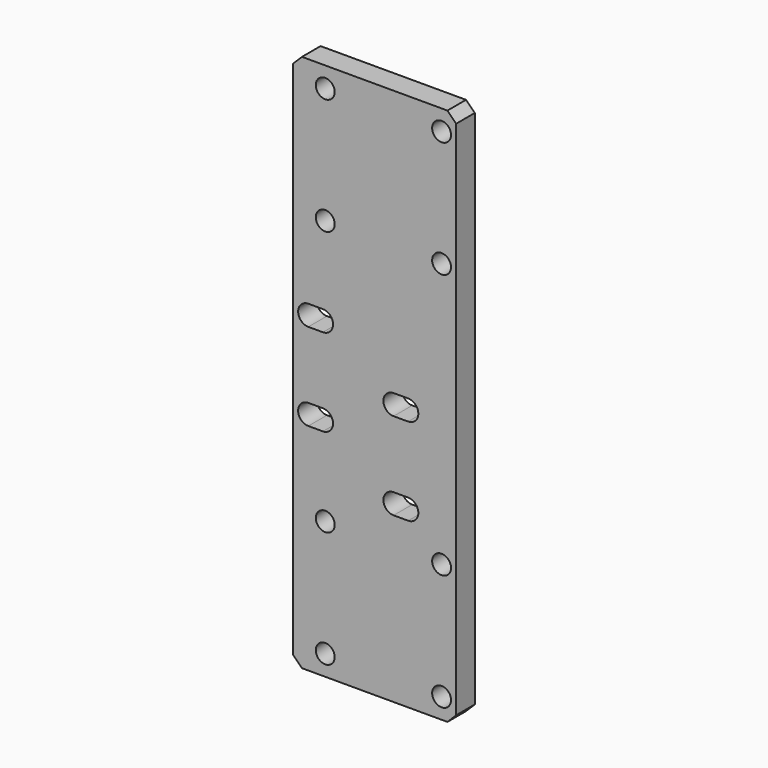
from build123d import *

# Parameters (mm, degrees)
F0_W     = 56
F0_H     = 185
F1_DEPTH = 8
F2_SIZE  = 3
F4_D     = 6.5
F6_DEPTH = 25


with BuildPart() as f1:
    # F0 (on Front) → F1 (new body)
    with BuildSketch(Plane.XZ):
        Rectangle(F0_W, F0_H)
    extrude(amount=F1_DEPTH)

    # F2
    f2_edges = [f1.edges().sort_by_distance(p)[0] for p in [
        (28, -4, 92.5),
        (-28, -4, 92.5),
        (28, -4, -92.5),
        (-28, -4, -92.5),
    ]]
    chamfer(f2_edges, length=F2_SIZE)

    # F4 (through all)
    with Locations(Plane.XZ.offset(8)):
        with Locations((-17, -85.5), (23, -85.5), (23, -45.5), (-17, -45.5), (-17, 45.5), (23, 45.5), (23, 85.5), (-17, 85.5)):
            Hole(F4_D / 2)

    # F5 (on face) → F6 (cut)
    with BuildSketch(Plane.XZ.offset(8)):
        with BuildLine():
            ThreePointArc((6.5, 1), (3, -2.5), (6.5, -6))
            Line((6.5, -6), (6.5, 1))
        make_face()
        with BuildLine():
            Line((11.5, 1), (11.5, -6))
            ThreePointArc((11.5, -6), (13.9748737342, -4.9748737342), (15, -2.5))
            ThreePointArc((15, -2.5), (13.9748737342, -0.0251262658), (11.5, 1))
        make_face()
        with BuildLine():
            ThreePointArc((6.5, -29), (3, -32.5), (6.5, -36))
            Line((6.5, -36), (6.5, -29))
        make_face()
        with BuildLine():
            Line((11.5, -29), (11.5, -36))
            ThreePointArc((11.5, -36), (13.9748737342, -34.9748737342), (15, -32.5))
            ThreePointArc((15, -32.5), (13.9748737342, -30.0251262658), (11.5, -29))
        make_face()
        with BuildLine():
            Line((-17.81, -11.5), (-17.81, -18.5))
            ThreePointArc((-17.81, -18.5), (-15.3351262658, -17.4748737342), (-14.31, -15))
            ThreePointArc((-14.31, -15), (-15.3351262658, -12.5251262658), (-17.81, -11.5))
        make_face()
        with BuildLine():
            ThreePointArc((-22.81, 18.5), (-26.31, 15), (-22.81, 11.5))
            Line((-22.81, 11.5), (-22.81, 18.5))
        make_face()
        with BuildLine():
            Line((-17.81, 18.5), (-17.81, 11.5))
            ThreePointArc((-17.81, 11.5), (-15.3351262658, 12.5251262658), (-14.31, 15))
            ThreePointArc((-14.31, 15), (-15.3351262658, 17.4748737342), (-17.81, 18.5))
        make_face()
        with BuildLine():
            ThreePointArc((9, -4.9494897428), (7.8558735008, -5.7267021942), (6.5, -6))
            Line((6.5, -6), (11.5, -6))
            ThreePointArc((11.5, -6), (10.1441264992, -5.7267021942), (9, -4.9494897428))
        make_face()
        with BuildLine():
            Line((11.5, 1), (6.5, 1))
            ThreePointArc((6.5, 1), (7.8558735008, 0.7267021942), (9, -0.0505102572))
            ThreePointArc((9, -0.0505102572), (10.1441264992, 0.7267021942), (11.5, 1))
        make_face()
        with BuildLine():
            ThreePointArc((9, -34.9494897428), (7.8558735008, -35.7267021942), (6.5, -36))
            Line((6.5, -36), (11.5, -36))
            ThreePointArc((11.5, -36), (10.1441264992, -35.7267021942), (9, -34.9494897428))
        make_face()
        with BuildLine():
            Line((11.5, -29), (6.5, -29))
            ThreePointArc((6.5, -29), (7.8558735008, -29.2732978058), (9, -30.0505102572))
            ThreePointArc((9, -30.0505102572), (10.1441264992, -29.2732978058), (11.5, -29))
        make_face()
        with BuildLine():
            ThreePointArc((-20.31, -17.4494897428), (-21.4541264992, -18.2267021942), (-22.81, -18.5))
            Line((-22.81, -18.5), (-17.81, -18.5))
            ThreePointArc((-17.81, -18.5), (-19.1658735008, -18.2267021942), (-20.31, -17.4494897428))
        make_face()
        with BuildLine():
            Line((-17.81, -11.5), (-22.81, -11.5))
            ThreePointArc((-22.81, -11.5), (-21.4541264992, -11.7732978058), (-20.31, -12.5505102572))
            ThreePointArc((-20.31, -12.5505102572), (-19.1658735008, -11.7732978058), (-17.81, -11.5))
        make_face()
        with BuildLine():
            ThreePointArc((-20.31, 12.5505102572), (-21.4541264992, 11.7732978058), (-22.81, 11.5))
            Line((-22.81, 11.5), (-17.81, 11.5))
            ThreePointArc((-17.81, 11.5), (-19.1658735008, 11.7732978058), (-20.31, 12.5505102572))
        make_face()
        with BuildLine():
            Line((-17.81, 18.5), (-22.81, 18.5))
            ThreePointArc((-22.81, 18.5), (-21.4541264992, 18.2267021942), (-20.31, 17.4494897428))
            ThreePointArc((-20.31, 17.4494897428), (-19.1658735008, 18.2267021942), (-17.81, 18.5))
        make_face()
        with BuildLine():
            Line((6.5, 1), (6.5, -6))
            ThreePointArc((6.5, -6), (7.8558735008, -5.7267021942), (9, -4.9494897428))
            ThreePointArc((9, -4.9494897428), (8, -2.5), (9, -0.0505102572))
            ThreePointArc((9, -0.0505102572), (7.8558735008, 0.7267021942), (6.5, 1))
        make_face()
        with BuildLine():
            ThreePointArc((9, -4.9494897428), (10.1441264992, -5.7267021942), (11.5, -6))
            Line((11.5, -6), (11.5, 1))
            ThreePointArc((11.5, 1), (10.1441264992, 0.7267021942), (9, -0.0505102572))
            ThreePointArc((9, -0.0505102572), (9.7403703492, -1.1771243445), (10, -2.5))
            ThreePointArc((10, -2.5), (9.7403703492, -3.8228756555), (9, -4.9494897428))
        make_face()
        with BuildLine():
            Line((6.5, -29), (6.5, -36))
            ThreePointArc((6.5, -36), (7.8558735008, -35.7267021942), (9, -34.9494897428))
            ThreePointArc((9, -34.9494897428), (8, -32.5), (9, -30.0505102572))
            ThreePointArc((9, -30.0505102572), (7.8558735008, -29.2732978058), (6.5, -29))
        make_face()
        with BuildLine():
            ThreePointArc((9, -34.9494897428), (10.1441264992, -35.7267021942), (11.5, -36))
            Line((11.5, -36), (11.5, -29))
            ThreePointArc((11.5, -29), (10.1441264992, -29.2732978058), (9, -30.0505102572))
            ThreePointArc((9, -30.0505102572), (9.7403703492, -31.1771243445), (10, -32.5))
            ThreePointArc((10, -32.5), (9.7403703492, -33.8228756555), (9, -34.9494897428))
        make_face()
        with BuildLine():
            Line((-22.81, -11.5), (-22.81, -18.5))
            ThreePointArc((-22.81, -18.5), (-21.4541264992, -18.2267021942), (-20.31, -17.4494897428))
            ThreePointArc((-20.31, -17.4494897428), (-21.31, -15), (-20.31, -12.5505102572))
            ThreePointArc((-20.31, -12.5505102572), (-21.4541264992, -11.7732978058), (-22.81, -11.5))
        make_face()
        with BuildLine():
            ThreePointArc((-20.31, -17.4494897428), (-19.1658735008, -18.2267021942), (-17.81, -18.5))
            Line((-17.81, -18.5), (-17.81, -11.5))
            ThreePointArc((-17.81, -11.5), (-19.1658735008, -11.7732978058), (-20.31, -12.5505102572))
            ThreePointArc((-20.31, -12.5505102572), (-19.5696296508, -13.6771243445), (-19.31, -15))
            ThreePointArc((-19.31, -15), (-19.5696296508, -16.3228756555), (-20.31, -17.4494897428))
        make_face()
        with BuildLine():
            Line((-22.81, 18.5), (-22.81, 11.5))
            ThreePointArc((-22.81, 11.5), (-21.4541264992, 11.7732978058), (-20.31, 12.5505102572))
            ThreePointArc((-20.31, 12.5505102572), (-21.31, 15), (-20.31, 17.4494897428))
            ThreePointArc((-20.31, 17.4494897428), (-21.4541264992, 18.2267021942), (-22.81, 18.5))
        make_face()
        with BuildLine():
            ThreePointArc((-20.31, 12.5505102572), (-19.1658735008, 11.7732978058), (-17.81, 11.5))
            Line((-17.81, 11.5), (-17.81, 18.5))
            ThreePointArc((-17.81, 18.5), (-19.1658735008, 18.2267021942), (-20.31, 17.4494897428))
            ThreePointArc((-20.31, 17.4494897428), (-19.5696296508, 16.3228756555), (-19.31, 15))
            ThreePointArc((-19.31, 15), (-19.5696296508, 13.6771243445), (-20.31, 12.5505102572))
        make_face()
        with BuildLine():
            ThreePointArc((-22.81, -11.5), (-26.31, -15), (-22.81, -18.5))
            Line((-22.81, -18.5), (-22.81, -11.5))
        make_face()
        with BuildLine():
            ThreePointArc((-20.31, -12.5505102572), (-21.31, -15), (-20.31, -17.4494897428))
            ThreePointArc((-20.31, -17.4494897428), (-19.5696296508, -16.3228756555), (-19.31, -15))
            ThreePointArc((-19.31, -15), (-19.5696296508, -13.6771243445), (-20.31, -12.5505102572))
        make_face()
        with BuildLine():
            ThreePointArc((-20.31, 17.4494897428), (-21.31, 15), (-20.31, 12.5505102572))
            ThreePointArc((-20.31, 12.5505102572), (-19.5696296508, 13.6771243445), (-19.31, 15))
            ThreePointArc((-19.31, 15), (-19.5696296508, 16.3228756555), (-20.31, 17.4494897428))
        make_face()
        with BuildLine():
            ThreePointArc((9, -0.0505102572), (8, -2.5), (9, -4.9494897428))
            ThreePointArc((9, -4.9494897428), (9.7403703492, -3.8228756555), (10, -2.5))
            ThreePointArc((10, -2.5), (9.7403703492, -1.1771243445), (9, -0.0505102572))
        make_face()
        with BuildLine():
            ThreePointArc((9, -30.0505102572), (8, -32.5), (9, -34.9494897428))
            ThreePointArc((9, -34.9494897428), (9.7403703492, -33.8228756555), (10, -32.5))
            ThreePointArc((10, -32.5), (9.7403703492, -31.1771243445), (9, -30.0505102572))
        make_face()
    extrude(amount=-F6_DEPTH, mode=Mode.SUBTRACT)


solid = f1.part
